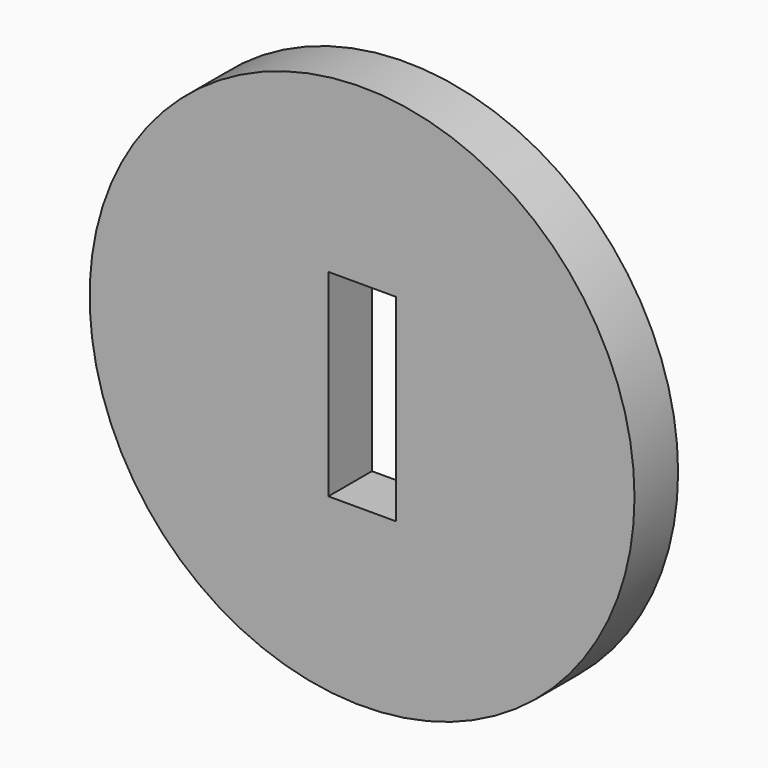
from build123d import *

# Parameters (mm, degrees)
F0_R     = 15
F1_DEPTH = 3
F2_W     = 3.710208
F2_H     = 10.880598
F3_DEPTH = 25


with BuildPart() as f1:
    # F0 (on Front) → F1 (new body)
    with BuildSketch(Plane.XZ):
        Circle(F0_R)
    extrude(amount=F1_DEPTH)

    # F2 (on Front) → F3 (cut)
    with BuildSketch(Plane.XZ):
        Rectangle(F2_W, F2_H)
    extrude(amount=F3_DEPTH, mode=Mode.SUBTRACT)


solid = f1.part
